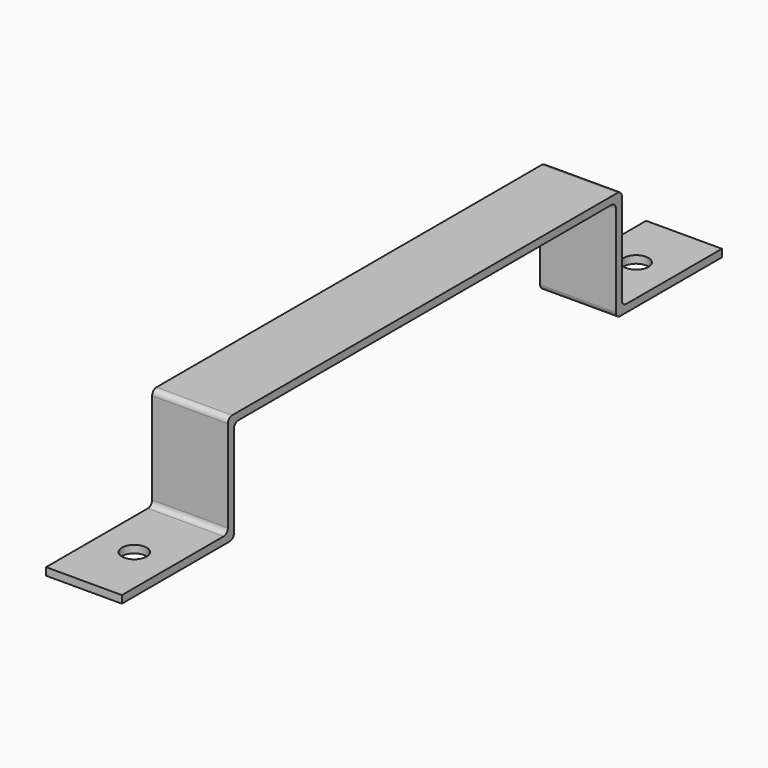
from build123d import *

# Parameters (mm, degrees)
F1_DEPTH = 20
F2_R     = 3.25
F3_DEPTH = 25


with BuildPart() as f1:
    # F0 (on Right) → F1 (new body)
    with BuildSketch(Plane.YZ):
        with BuildLine():
            Line((-109.523197, 25.618557), (-109.523197, 23.618557))
            Line((-109.523197, 23.618557), (-73.921393, 23.618557))
            ThreePointArc((-73.921393, 23.618557), (-72.932719, 24.028079), (-72.523197, 25.016753))
            Line((-72.523197, 25.016753), (-72.523197, 25.618557))
            Line((-72.523197, 25.618557), (-72.523197, 49.220361))
            ThreePointArc((-72.523197, 49.220361), (-72.113675, 50.209035), (-71.125001, 50.618557))
            Line((-71.125001, 50.618557), (52.078607, 50.618557))
            ThreePointArc((52.078607, 50.618557), (53.067281, 50.209035), (53.476803, 49.220361))
            Line((53.476803, 49.220361), (53.476803, 25.016753))
            ThreePointArc((53.476803, 25.016753), (53.886325, 24.028079), (54.874999, 23.618557))
            Line((54.874999, 23.618557), (55.476803, 23.618557))
            Line((55.476803, 23.618557), (88.476803, 23.618557))
            Line((88.476803, 23.618557), (88.476803, 25.618557))
            Line((88.476803, 25.618557), (56.874999, 25.618557))
            ThreePointArc((56.874999, 25.618557), (55.886325, 26.028079), (55.476803, 27.016753))
            Line((55.476803, 27.016753), (55.476803, 51.220361))
            ThreePointArc((55.476803, 51.220361), (55.067281, 52.209035), (54.078607, 52.618557))
            Line((54.078607, 52.618557), (52.04897, 52.618557))
            Line((52.04897, 52.618557), (-11.456186, 52.618557))
            Line((-11.456186, 52.618557), (-73.125197, 52.618557))
            ThreePointArc((-73.125197, 52.618557), (-74.113732, 52.209092), (-74.523197, 51.220557))
            Line((-74.523197, 51.220557), (-74.523197, 51.220361))
            Line((-74.523197, 51.220361), (-74.523197, 50.618557))
            Line((-74.523197, 50.618557), (-74.523197, 27.016753))
            ThreePointArc((-74.523197, 27.016753), (-74.932719, 26.028079), (-75.921393, 25.618557))
            Line((-75.921393, 25.618557), (-109.523197, 25.618557))
        make_face()
    extrude(amount=F1_DEPTH)

    # F2 (on face) → F3 (cut)
    with BuildSketch(Plane.XY.offset(25.618557)):
        with BuildLine():
            Line((6.75, 72.675901), (10, 72.675901))
            Line((10, 72.675901), (13.25, 72.675901))
            ThreePointArc((13.25, 72.675901), (10, 75.925901), (6.75, 72.675901))
        make_face()
        with BuildLine():
            Line((13.25, 72.675901), (10, 72.675901))
            Line((10, 72.675901), (6.75, 72.675901))
            ThreePointArc((6.75, 72.675901), (10, 69.425901), (13.25, 72.675901))
        make_face()
        with Locations((10, -92.924099)):
            Circle(F2_R)
    extrude(amount=-F3_DEPTH, mode=Mode.SUBTRACT)


solid = f1.part
